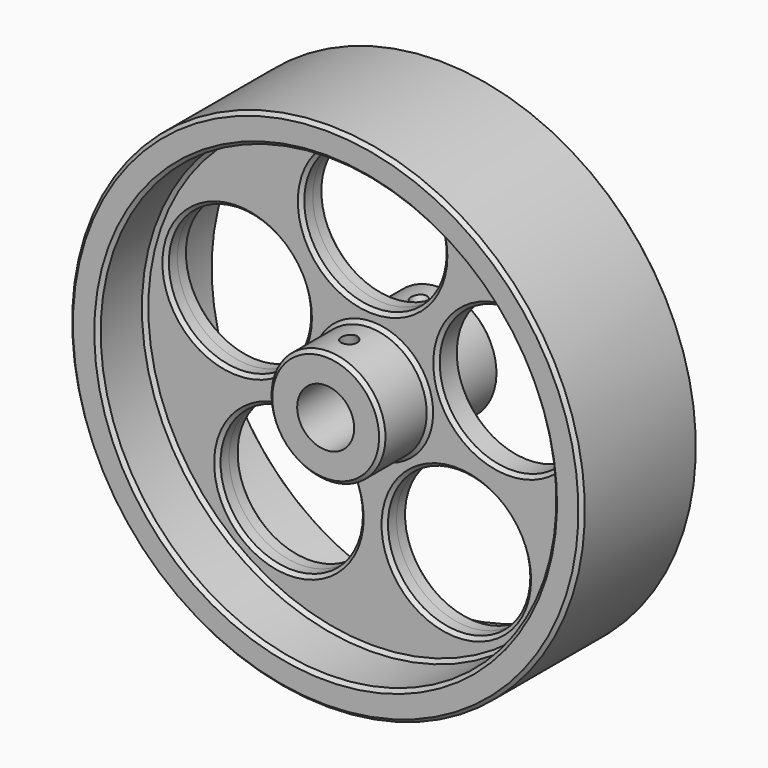
from build123d import *

# Parameters (mm, degrees)
F2_R      = 15.875
F3_DEPTH  = 25.4
F7_R      = 1.7272
F8_DEPTH  = 12.5777076509
F9_R      = 1.7272
F10_DEPTH = 12.5777076509
F11_SIZE  = 0.79375


with BuildPart() as f1:
    # F0 (on Right) → F1 (revolve)
    with BuildSketch(Plane.YZ):
        Polygon((-16.256, 12.7), (-16.256, 6.35), (16.256, 6.35), (16.256, 12.7), (3.175, 12.7), (3.175, 50.8), (16.256, 50.8), (16.256, 57.15), (-16.256, 57.15), (-16.256, 50.8), (-3.175, 50.8), (-3.175, 12.7), align=None)
    revolve(axis=Axis((0, 1.0807417785, 0), (0, 1, 0)))

    # F2 (on Front) → F3 (cut, symmetric)
    with BuildSketch(Plane.XZ):
        with Locations((0, 31.75)):
            Circle(F2_R)
        with Locations((-30.1960443924, 9.8112895714)):
            Circle(F2_R)
        with Locations((-18.6621817603, -25.6862895714)):
            Circle(F2_R)
        with Locations((18.6621817603, -25.6862895714)):
            Circle(F2_R)
        with Locations((30.1960443924, 9.8112895714)):
            Circle(F2_R)
    extrude(amount=F3_DEPTH, both=True, mode=Mode.SUBTRACT)

    # F7 (on line) → F8 (cut, up to face)
    with BuildSketch(Plane(origin=(0, -7.4394877579, 17.9605122421), x_dir=(1, 0, 0), z_dir=(0, 0.3826834324, -0.9238795325))):
        with Locations((0, 4.1158720071)):
            Circle(F7_R)
    extrude(amount=F8_DEPTH, mode=Mode.SUBTRACT)

    # F9 (on line) → F10 (cut, up to face)
    with BuildSketch(Plane(origin=(0, 7.4394877579, 17.9605122421), x_dir=(1, 0, 0), z_dir=(0, 0.3826834324, 0.9238795325))):
        with Locations((0, 4.1158720071)):
            Circle(F9_R)
    extrude(amount=-F10_DEPTH, mode=Mode.SUBTRACT)

    # F11
    f11_edges = [f1.edges().sort_by_distance(p)[0] for p in [
        (0, -16.256, -57.15),
        (0, 16.256, -57.15),
        (0, -16.256, -50.8),
        (0, -3.175, -50.8),
        (0, 16.256, -50.8),
        (0, 3.175, -50.8),
        (0, 16.256, -12.7),
        (0, 3.175, -12.7),
        (0, -16.256, -12.7),
        (0, -3.175, -12.7),
        (-15.875, -3.175, 31.75),
        (14.321044, -3.175, 9.81129),
        (2.787182, -3.175, -25.68629),
        (-34.537182, -3.175, -25.68629),
        (-46.071044, -3.175, 9.81129),
        (-15.875, 3.175, 31.75),
        (-46.071044, 3.175, 9.81129),
        (-34.537182, 3.175, -25.68629),
        (2.787182, 3.175, -25.68629),
        (14.321044, 3.175, 9.81129),
    ]]
    chamfer(f11_edges, length=F11_SIZE)


solid = f1.part
